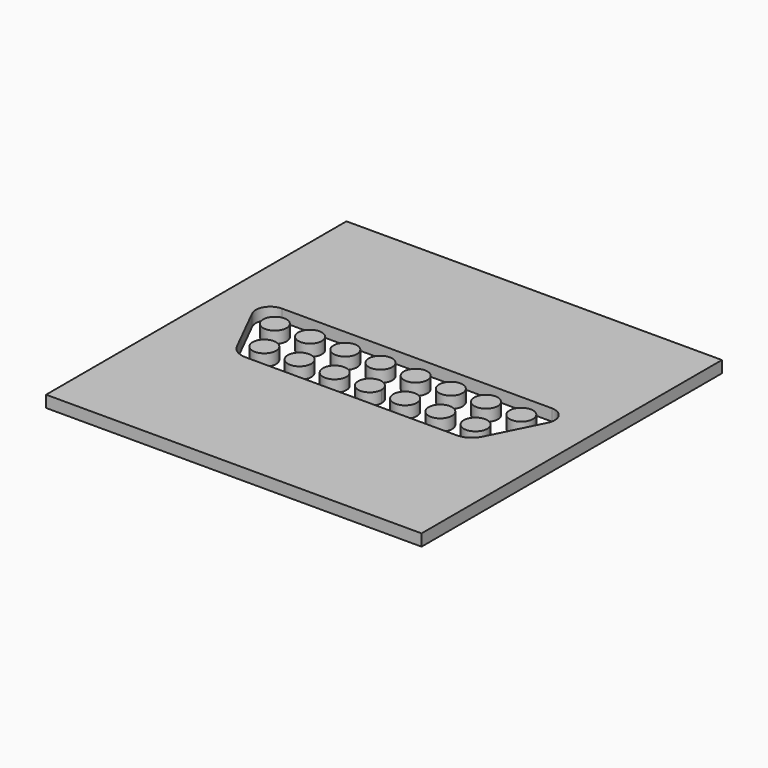
from build123d import *

# Parameters (mm, degrees)
F0_R     = 1
F1_DEPTH = 1
F0_W     = 32
F0_H     = 32
F2_DEPTH = 1


with BuildPart() as f1:
    # F0 (on Top) → F1 (new body)
    with BuildSketch(Plane.XY):
        with Locations((-10.5, 3)):
            Circle(F0_R)
        with Locations((-7.5, 3)):
            Circle(F0_R)
        with Locations((-4.5, 3)):
            Circle(F0_R)
        with Locations((-1.5, 3)):
            Circle(F0_R)
        with Locations((1.5, 3)):
            Circle(F0_R)
        with Locations((4.5, 3)):
            Circle(F0_R)
        with Locations((7.5, 3)):
            Circle(F0_R)
        with Locations((10.5, 3)):
            Circle(F0_R)
        with Locations((-9, 0)):
            Circle(F0_R)
        with Locations((-6, 0)):
            Circle(F0_R)
        with Locations((-3, 0)):
            Circle(F0_R)
        with BuildLine():
            ThreePointArc((0, 1), (-0.707107, -0.707107), (1, 0))
            ThreePointArc((1, 0), (0.707107, 0.707107), (0, 1))
        make_face()
        with Locations((3, 0)):
            Circle(F0_R)
        with Locations((6, 0)):
            Circle(F0_R)
        with Locations((9, 0)):
            Circle(F0_R)
    extrude(amount=F1_DEPTH)


with BuildPart() as f2:
    # F0 (on Top) → F2 (new body)
    with BuildSketch(Plane.XY):
        with Locations((0, 1.5)):
            Rectangle(F0_W, F0_H)
        with BuildLine():
            Line((9, -2), (-9, -2))
            ThreePointArc((-9, -2), (-9.850651, -1.758348), (-10.447214, -1.105573))
            Line((-10.447214, -1.105573), (-11, 0))
            Line((-11, 0), (-12.5, 3))
            Line((-12.5, 3), (-12.605573, 3.211146))
            ThreePointArc((-12.605573, 3.211146), (-12.551462, 4.413771), (-11.5, 5))
            Line((-11.5, 5), (-10.5, 5))
            Line((-10.5, 5), (11.5, 5))
            ThreePointArc((11.5, 5), (12.551462, 4.413771), (12.605573, 3.211146))
            Line((12.605573, 3.211146), (12.5, 3))
            Line((12.5, 3), (11, 0))
            Line((11, 0), (10.447214, -1.105573))
            ThreePointArc((10.447214, -1.105573), (9.850651, -1.758348), (9, -2))
        make_face(mode=Mode.SUBTRACT)
    extrude(amount=F2_DEPTH)


solid = Compound([f1.part, f2.part])
